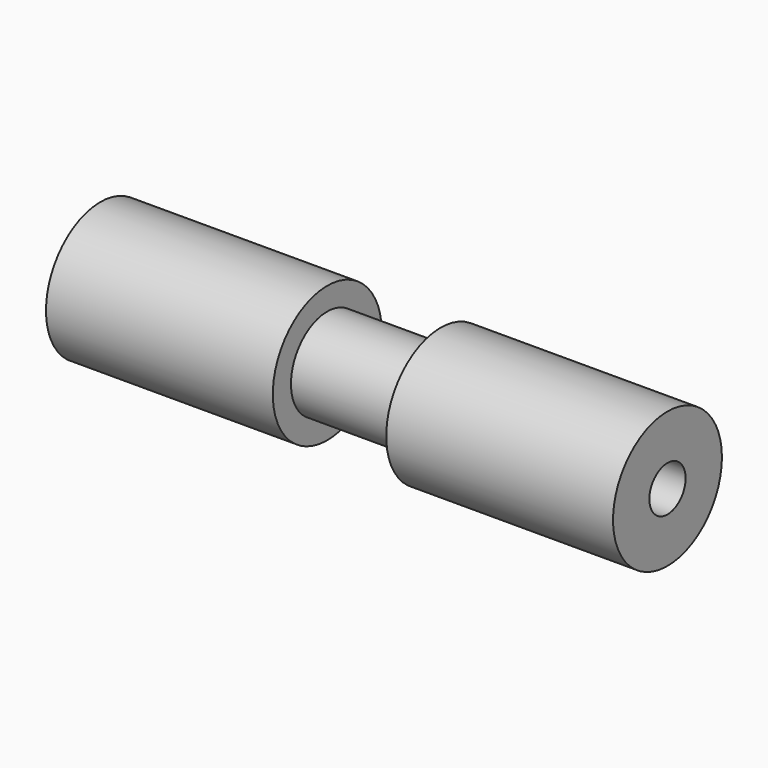
from build123d import *

# Parameters (mm, degrees)
F2_R     = 1
F3_DEPTH = 25.001


with BuildPart() as f1:
    # F0 (on Top) → F1 (revolve)
    with BuildSketch(Plane.XY):
        Polygon((0, 3), (0, 0), (25, 0), (25, 3), (15, 3), (15, 2), (10, 2), (10, 3), align=None)
    revolve(axis=Axis((12.5, 0, 0), (1, 0, 0)))

    # F2 (on face) → F3 (cut, through all)
    with BuildSketch(Plane(origin=(0, 0, 0), x_dir=(0, -1, 0), z_dir=(-1, 0, 0))):
        Circle(F2_R)
    extrude(amount=-F3_DEPTH, mode=Mode.SUBTRACT)


solid = f1.part
